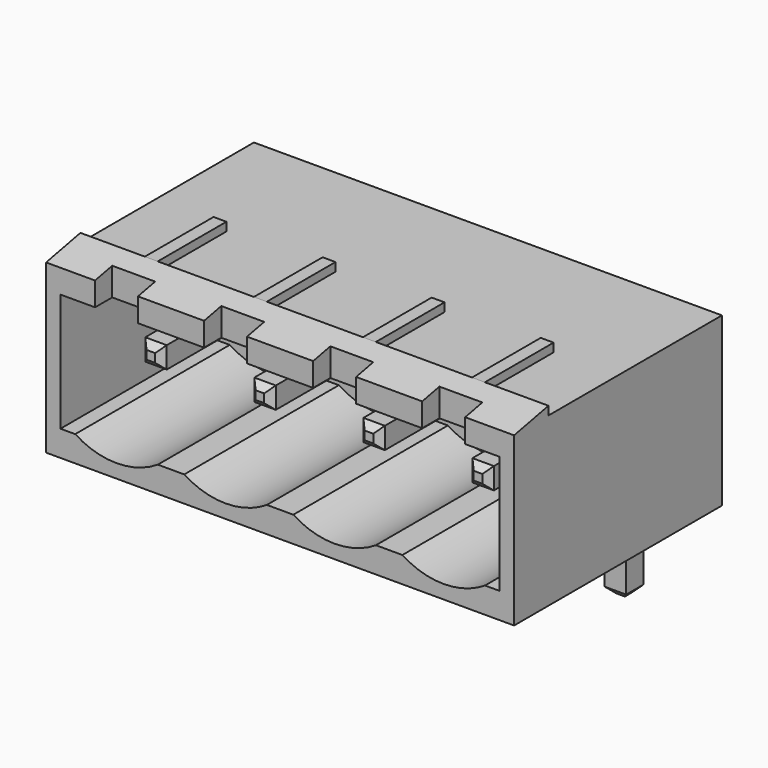
from build123d import *

# Parameters (mm, degrees)
F0_W       = 21.8
F0_H       = 8.2
F1_DEPTH   = 6.05
F3_DEPTH   = 9
F4_W       = 1
F4_H       = 1
F5_DEPTH   = 7
F6_W       = 1
F6_H       = 1
F7_DEPTH   = 4
F8_W       = 2
F8_H       = 1
F9_DEPTH   = 2
F10_W      = 20.46
F10_H      = 0.5
F11_DEPTH  = 9
F12_SIZE   = 0.3
F12_2_SIZE = 0.3
F12_3_SIZE = 0.3
F12_4_SIZE = 0.3
F12_5_SIZE = 0.3
F12_6_SIZE = 0.3
F12_7_SIZE = 0.3
F12_8_SIZE = 0.3
F13_W      = 10.1
F13_H      = 0.4
F14_DEPTH  = 21.801
F15_W      = 0.6
F15_H      = 4
F16_DEPTH  = 0.4


with BuildPart() as f1:
    # F0 (on Front) → F1 (new body, symmetric)
    with BuildSketch(Plane.XZ):
        Rectangle(F0_W, F0_H)
    extrude(amount=F1_DEPTH, both=True)

    # F2 (on face) → F3 (cut)
    with BuildSketch(Plane.XZ.offset(6.05)):
        with BuildLine():
            Line((10.23, 2.6), (-10.23, 2.6))
            Line((-10.23, 2.6), (-10.23, -2.4))
            Line((-10.23, -2.4), (-10.16, -2.4))
            ThreePointArc((-10.16, -2.4), (-7.62, -3.4639304146), (-5.08, -2.4))
            ThreePointArc((-5.08, -2.4), (-2.54, -3.4639304146), (0, -2.4))
            ThreePointArc((0, -2.4), (2.54, -3.4639304146), (5.08, -2.4))
            ThreePointArc((5.08, -2.4), (7.62, -3.4639304146), (10.16, -2.4))
            Line((10.16, -2.4), (10.23, -2.4))
            Line((10.23, -2.4), (10.23, 2.6))
        make_face()
    extrude(amount=-F3_DEPTH, mode=Mode.SUBTRACT)

    # F8 (on face) → F9 (cut)
    with BuildSketch(Plane.XY.offset(4.1)):
        with Locations((-2.54, -5.55)):
            Rectangle(F8_W, F8_H)
        with Locations((2.54, -5.55)):
            Rectangle(F8_W, F8_H)
        with Locations((7.62, -5.55)):
            Rectangle(F8_W, F8_H)
        with Locations((-7.62, -5.55)):
            Rectangle(F8_W, F8_H)
    extrude(amount=-F9_DEPTH, mode=Mode.SUBTRACT)

    # F10 (on face) → F11 (cut, through all)
    with BuildSketch(Plane.XZ.offset(6.05)):
        with Locations((0, -2.65)):
            Rectangle(F10_W, F10_H)
    extrude(amount=-F11_DEPTH, mode=Mode.SUBTRACT)

    # F13 (on face) → F14 (cut, through all)
    with BuildSketch(Plane.YZ.offset(10.9)):
        Polygon((-4.05, 4.1), (-6.05, 4.1), (-6.05, 3.7), align=None)
        with Locations((1, 3.9)):
            Rectangle(F13_W, F13_H)
    extrude(amount=-F14_DEPTH, mode=Mode.SUBTRACT)

    # F15 (on face) → F16 (join)
    with BuildSketch(Plane.XY.offset(3.7)):
        with Locations((-7.6, -2.05)):
            Rectangle(F15_W, F15_H)
        with Locations((-2.52, -2.05)):
            Rectangle(F15_W, F15_H)
        with Locations((2.56, -2.05)):
            Rectangle(F15_W, F15_H)
        with Locations((7.64, -2.05)):
            Rectangle(F15_W, F15_H)
    extrude(amount=F16_DEPTH)


with BuildPart() as f5:
    # F4 (on face) → F5 (new body)
    with BuildSketch(Plane.XZ.offset(-2.95)):
        with Locations((-7.62, 0.1)):
            Rectangle(F4_W, F4_H)
    extrude(amount=F5_DEPTH)

    # F12
    f12_edges = [f5.edges().sort_by_distance(p)[0] for p in [
        (-7.62, -4.05, -0.4),
        (-7.12, -4.05, 0.1),
        (-7.62, -4.05, 0.6),
        (-8.12, -4.05, 0.1),
    ]]
    chamfer(f12_edges, length=F12_SIZE)


with BuildPart() as f5b:
    # F4 (on face) → F5, piece 2 (new body)
    with BuildSketch(Plane.XZ.offset(-2.95)):
        with Locations((-2.54, 0.1)):
            Rectangle(F4_W, F4_H)
    extrude(amount=F5_DEPTH)

    # F12#2
    f12_2_edges = [f5b.edges().sort_by_distance(p)[0] for p in [
        (-2.54, -4.05, -0.4),
        (-2.04, -4.05, 0.1),
        (-2.54, -4.05, 0.6),
        (-3.04, -4.05, 0.1),
    ]]
    chamfer(f12_2_edges, length=F12_2_SIZE)


with BuildPart() as f5c:
    # F4 (on face) → F5, piece 3 (new body)
    with BuildSketch(Plane.XZ.offset(-2.95)):
        with Locations((2.54, 0.1)):
            Rectangle(F4_W, F4_H)
    extrude(amount=F5_DEPTH)

    # F12#3
    f12_3_edges = [f5c.edges().sort_by_distance(p)[0] for p in [
        (2.54, -4.05, -0.4),
        (3.04, -4.05, 0.1),
        (2.54, -4.05, 0.6),
        (2.04, -4.05, 0.1),
    ]]
    chamfer(f12_3_edges, length=F12_3_SIZE)


with BuildPart() as f5d:
    # F4 (on face) → F5, piece 4 (new body)
    with BuildSketch(Plane.XZ.offset(-2.95)):
        with Locations((7.62, 0.1)):
            Rectangle(F4_W, F4_H)
    extrude(amount=F5_DEPTH)

    # F12#4
    f12_4_edges = [f5d.edges().sort_by_distance(p)[0] for p in [
        (7.62, -4.05, -0.4),
        (8.12, -4.05, 0.1),
        (7.62, -4.05, 0.6),
        (7.12, -4.05, 0.1),
    ]]
    chamfer(f12_4_edges, length=F12_4_SIZE)


with BuildPart() as f7:
    # F6 (on face) → F7 (new body)
    with BuildSketch(Plane(origin=(0, 0, -4.1), x_dir=(1, 0, 0), z_dir=(0, 0, -1))):
        with Locations((-7.62, -4.45)):
            Rectangle(F6_W, F6_H)
    extrude(amount=F7_DEPTH)

    # F12#5
    f12_5_edges = [f7.edges().sort_by_distance(p)[0] for p in [
        (-7.62, 3.95, -8.1),
        (-8.12, 4.45, -8.1),
        (-7.62, 4.95, -8.1),
        (-7.12, 4.45, -8.1),
    ]]
    chamfer(f12_5_edges, length=F12_5_SIZE)


with BuildPart() as f7b:
    # F6 (on face) → F7, piece 2 (new body)
    with BuildSketch(Plane(origin=(0, 0, -4.1), x_dir=(1, 0, 0), z_dir=(0, 0, -1))):
        with Locations((-2.54, -4.45)):
            Rectangle(F6_W, F6_H)
    extrude(amount=F7_DEPTH)

    # F12#6
    f12_6_edges = [f7b.edges().sort_by_distance(p)[0] for p in [
        (-2.54, 3.95, -8.1),
        (-3.04, 4.45, -8.1),
        (-2.54, 4.95, -8.1),
        (-2.04, 4.45, -8.1),
    ]]
    chamfer(f12_6_edges, length=F12_6_SIZE)


with BuildPart() as f7c:
    # F6 (on face) → F7, piece 3 (new body)
    with BuildSketch(Plane(origin=(0, 0, -4.1), x_dir=(1, 0, 0), z_dir=(0, 0, -1))):
        with Locations((7.62, -4.45)):
            Rectangle(F6_W, F6_H)
    extrude(amount=F7_DEPTH)

    # F12#8
    f12_8_edges = [f7c.edges().sort_by_distance(p)[0] for p in [
        (8.12, 4.45, -8.1),
        (7.62, 3.95, -8.1),
        (7.12, 4.45, -8.1),
        (7.62, 4.95, -8.1),
    ]]
    chamfer(f12_8_edges, length=F12_8_SIZE)


with BuildPart() as f7d:
    # F6 (on face) → F7, piece 4 (new body)
    with BuildSketch(Plane(origin=(0, 0, -4.1), x_dir=(1, 0, 0), z_dir=(0, 0, -1))):
        with Locations((2.54, -4.45)):
            Rectangle(F6_W, F6_H)
    extrude(amount=F7_DEPTH)

    # F12#7
    f12_7_edges = [f7d.edges().sort_by_distance(p)[0] for p in [
        (3.04, 4.45, -8.1),
        (2.54, 3.95, -8.1),
        (2.04, 4.45, -8.1),
        (2.54, 4.95, -8.1),
    ]]
    chamfer(f12_7_edges, length=F12_7_SIZE)


solid = Compound([f1.part, f5.part, f5b.part, f5c.part, f5d.part, f7.part, f7b.part, f7c.part, f7d.part])
